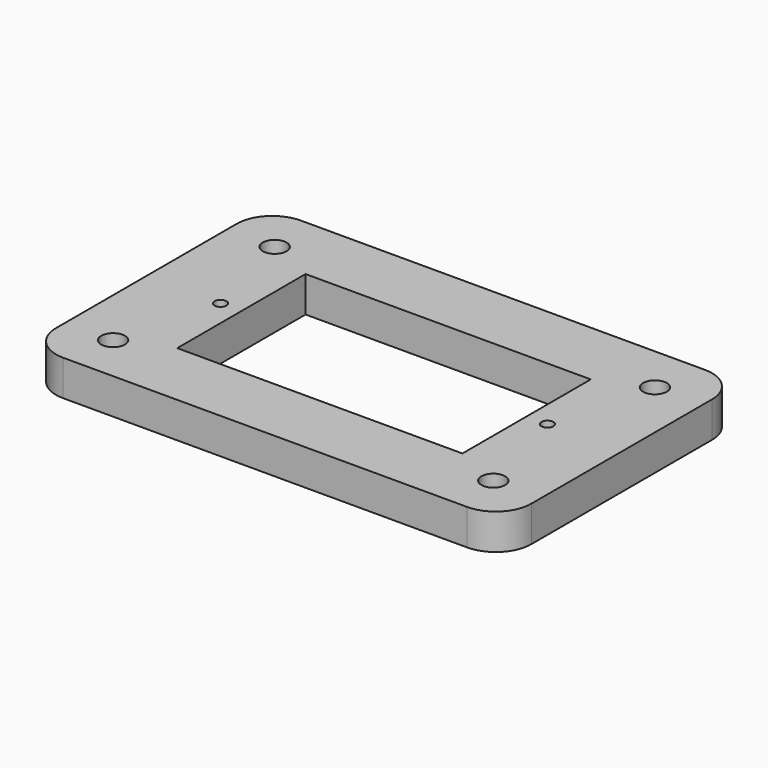
from build123d import *

# Parameters (mm, degrees)
F0_R     = 1
F0_R_2   = 0.5
F0_W     = 24
F0_H     = 13.5
F1_DEPTH = 3
F2_R     = 3


with BuildPart() as f1:
    # F0 (on Top) → F1 (new body)
    with BuildSketch(Plane.XY):
        Polygon((20, -8.5), (20, 12.5), (16, 12.5), (-20, 12.5), (-20, -8.5), (-20, -12.5), (-16, -12.5), (16, -12.5), (20, -12.5), align=None)
        with Locations((-16, -8.5)):
            Circle(F0_R, mode=Mode.SUBTRACT)
        with Locations((16, -8.5)):
            Circle(F0_R, mode=Mode.SUBTRACT)
        with Locations((-13.75, 0)):
            Circle(F0_R_2, mode=Mode.SUBTRACT)
        with Locations((-16, 8.5)):
            Circle(F0_R, mode=Mode.SUBTRACT)
        Rectangle(F0_W, F0_H, mode=Mode.SUBTRACT)
        with Locations((13.75, 0)):
            Circle(F0_R_2, mode=Mode.SUBTRACT)
        with Locations((16, 8.5)):
            Circle(F0_R, mode=Mode.SUBTRACT)
    extrude(amount=F1_DEPTH)

    # F2
    f2_edges = [f1.edges().sort_by_distance(p)[0] for p in [
        (20, -12.5, 1.5),
        (-20, -12.5, 1.5),
        (20, 12.5, 1.5),
        (-20, 12.5, 1.5),
    ]]
    fillet(f2_edges, radius=F2_R)


solid = f1.part
